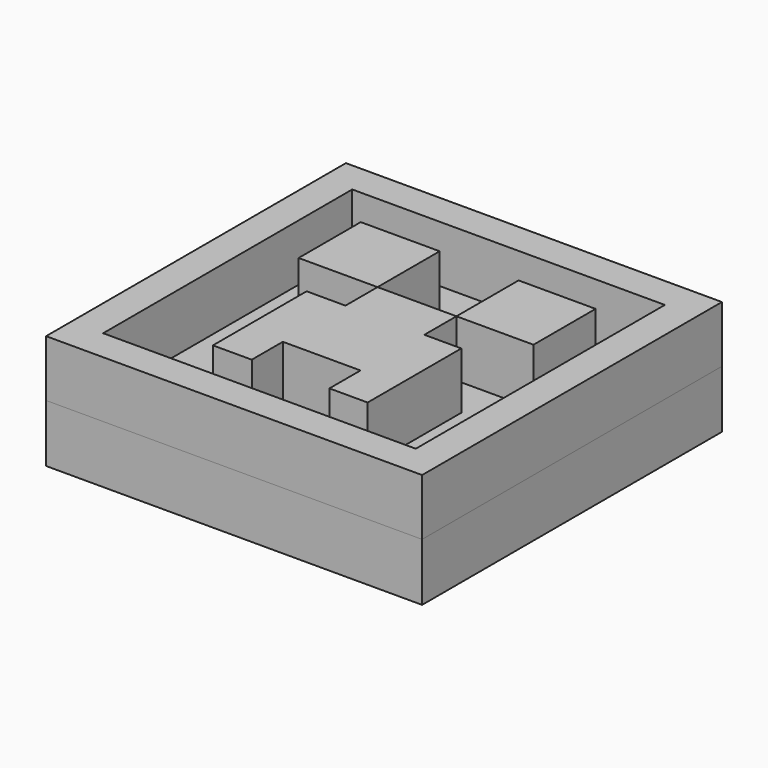
from build123d import *

# Parameters (mm, degrees)
F0_W     = 13.28378
F0_H     = 13.23978
F0_W_2   = 11.044
F0_H_2   = 11
F0_W_3   = 2.787907
F0_H_3   = 2.743654
F0_W_4   = 2.721528
F1_DEPTH = 2
F2_W     = 13.23978
F2_H     = 2.038168
F3_DEPTH = 13.28378


with BuildPart() as f1:
    # F0 (on Top) → F1 (new body)
    with BuildSketch(Plane.XY):
        with Locations((6.722622, 7.181752)):
            Rectangle(F0_W, F0_H)
        with Locations((6.722622, 7.181752)):
            Rectangle(F0_W_2, F0_H_2, mode=Mode.SUBTRACT)
        Polygon((8.178124, 8.561203), (5.390218, 8.561203), (5.390218, 7.145124), (4.018391, 7.145124), (4.018391, 3.007516), (5.390218, 3.007516), (5.390218, 4.379343), (8.133872, 4.379343), (8.133872, 3.007516), (9.483573, 3.007516), (9.483573, 7.145124), (8.178124, 7.145124), align=None)
        with Locations((3.996264, 9.93303)):
            Rectangle(F0_W_3, F0_H_3)
        with Locations((9.538888, 9.93303)):
            Rectangle(F0_W_4, F0_H_3)
    extrude(amount=F1_DEPTH)


with BuildPart() as f3:
    # F2 (on face) → F3 (new body, through all)
    with BuildSketch(Plane(origin=(0.080732, 0, 0), x_dir=(0, -1, 0), z_dir=(-1, 0, 0))):
        with Locations((-7.181752, -1.019084)):
            Rectangle(F2_W, F2_H)
    extrude(amount=-F3_DEPTH)


solid = Compound([f1.part, f3.part])
